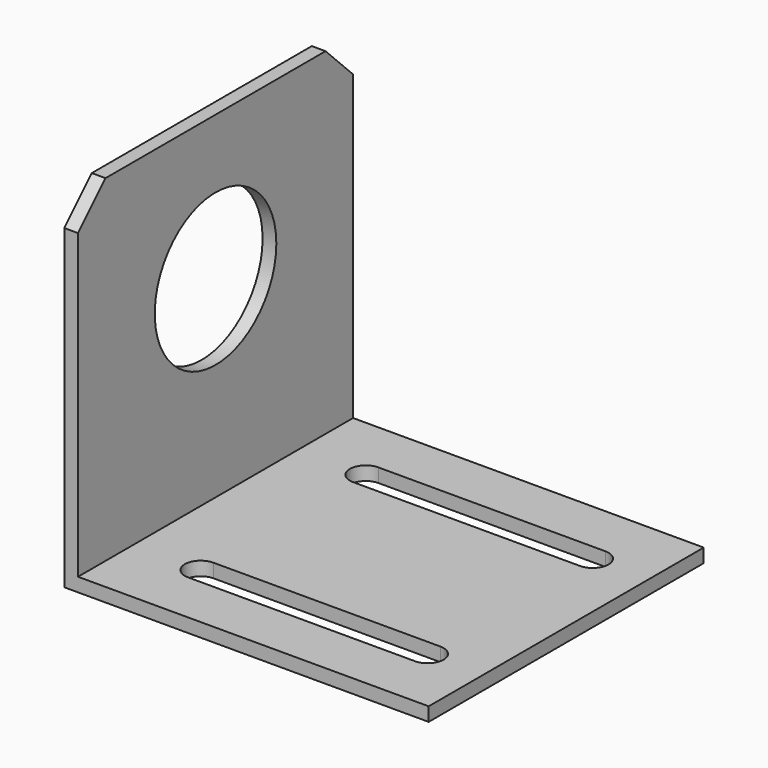
from build123d import *

# Parameters (mm, degrees)
F1_DEPTH = 50
F2_R     = 11.05
F3_DEPTH = 2
F5_DEPTH = 2


with BuildPart() as f1:
    # F0 (on Front) → F1 (new body)
    with BuildSketch(Plane.XZ):
        Polygon((-56.332381, 78.789798), (-58.332381, 78.789798), (-58.332381, 27.789798), (-5.332381, 27.789798), (-5.332381, 29.789798), (-56.332381, 29.789798), align=None)
    extrude(amount=-F1_DEPTH)

    # F2 (on face) → F3 (cut)
    with BuildSketch(Plane.YZ.offset(-56.332381)):
        with Locations((25, 57.789798)):
            Circle(F2_R)
        Polygon((0, 78.789798), (0, 73.789798), (5, 78.789798), align=None)
        Polygon((50, 78.789798), (45, 78.789798), (50, 73.789798), align=None)
    extrude(amount=-F3_DEPTH, mode=Mode.SUBTRACT)

    # F4 (on face) → F5 (cut)
    with BuildSketch(Plane.XY.offset(29.789798)):
        with BuildLine():
            ThreePointArc((-46.481331, 12.310056), (-48.791387, 10), (-46.481331, 7.689944))
            Line((-46.481331, 7.689944), (-13.480531, 7.689944))
            ThreePointArc((-13.480531, 7.689944), (-11.170475, 10), (-13.480531, 12.310056))
            Line((-13.480531, 12.310056), (-46.481331, 12.310056))
        make_face()
        with BuildLine():
            ThreePointArc((-46.481331, 42.310056), (-48.791387, 40), (-46.481331, 37.689944))
            Line((-46.481331, 37.689944), (-13.480531, 37.689944))
            ThreePointArc((-13.480531, 37.689944), (-11.170475, 40), (-13.480531, 42.310056))
            Line((-13.480531, 42.310056), (-46.481331, 42.310056))
        make_face()
    extrude(amount=-F5_DEPTH, mode=Mode.SUBTRACT)


solid = f1.part
